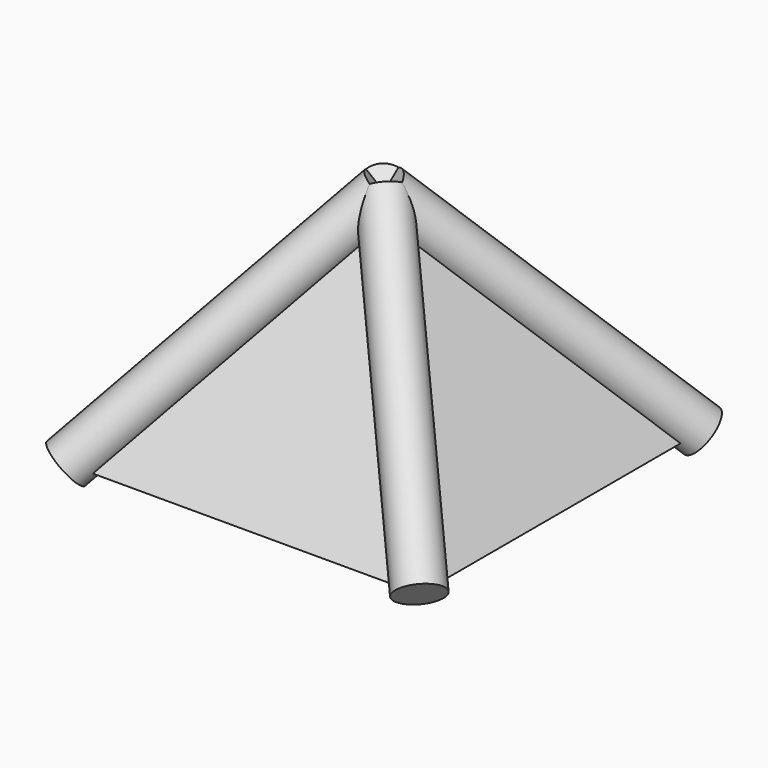
from build123d import *

# Parameters (mm, degrees)
F1_DEPTH = 3048
F3_DEPTH = 2794


with BuildPart() as f1:
    # F0 (on Front) → F1 (new body)
    with BuildSketch(Plane.XZ):
        Polygon((-2540, 0), (0, 0), (-1270, 1616.2025930436), align=None)
    extrude(amount=-F1_DEPTH)

    # F2 (on Right) → F3 (intersect)
    with BuildSketch(Plane.YZ):
        Polygon((1270, 1616.2025930436), (0, 0), (2540, 0), align=None)
    extrude(amount=-F3_DEPTH, mode=Mode.INTERSECT)


with BuildPart() as f5:
    # F4 (on face) → F5 (revolve)
    with BuildSketch(Plane(origin=(0, 0, 0), x_dir=(0, 1, 0), z_dir=(0.7862884321, 0, 0.6178596131))):
        Polygon((1270, 2055.4831115241), (0, 0), (140.4534003415, -86.7804835922), (1410.4534003415, 1968.7026279319), align=None)
    revolve(axis=Axis((-635, 635, 808.1012965218), (-0.5256237649, 0.5256237649, 0.6689090487)))


with BuildPart() as f7:
    # F6 (on face) → F7 (revolve)
    with BuildSketch(Plane(origin=(0, 0, 0), x_dir=(0, 1, 0), z_dir=(0.7862884321, 0, 0.6178596131))):
        Polygon((1410.4534003415, 2142.2635951163), (1270, 2055.4831115241), (2540, 0), (2680.4534003415, 86.7804835922), align=None)
    revolve(axis=Axis((-635, 1905, 808.1012965218), (0.5256237649, 0.5256237649, -0.6689090487)))


with BuildPart() as f9:
    # F8 (on face) → F9 (revolve)
    with BuildSketch(Plane(origin=(-1570.3537262201, 0, 1233.9723008016), x_dir=(0, -1, 0), z_dir=(-0.7862884321, 0, 0.6178596131))):
        Polygon((-140.4534003415, -1656.1439008417), (0, -1569.3634172494), (-1270, 486.1196942747), (-1410.4534003415, 399.3392106824), align=None)
    revolve(axis=Axis((-1905, 635, 808.1012965218), (0.5256237649, 0.5256237649, 0.6689090487)))


with BuildPart() as f11:
    # F10 (on face) → F11 (revolve)
    with BuildSketch(Plane(origin=(-1570.3537262201, 0, 1233.9723008016), x_dir=(0, -1, 0), z_dir=(-0.7862884321, 0, 0.6178596131))):
        Polygon((-2540, -1569.3634172494), (-1270, 486.1196942747), (-1410.4534003415, 572.9001778669), (-2680.4534003415, -1482.5829336572), align=None)
    revolve(axis=Axis((-1905, 1905, 808.1012965218), (-0.5256237649, 0.5256237649, -0.6689090487)))


solid = Compound([f1.part, f5.part, f7.part, f9.part, f11.part])
